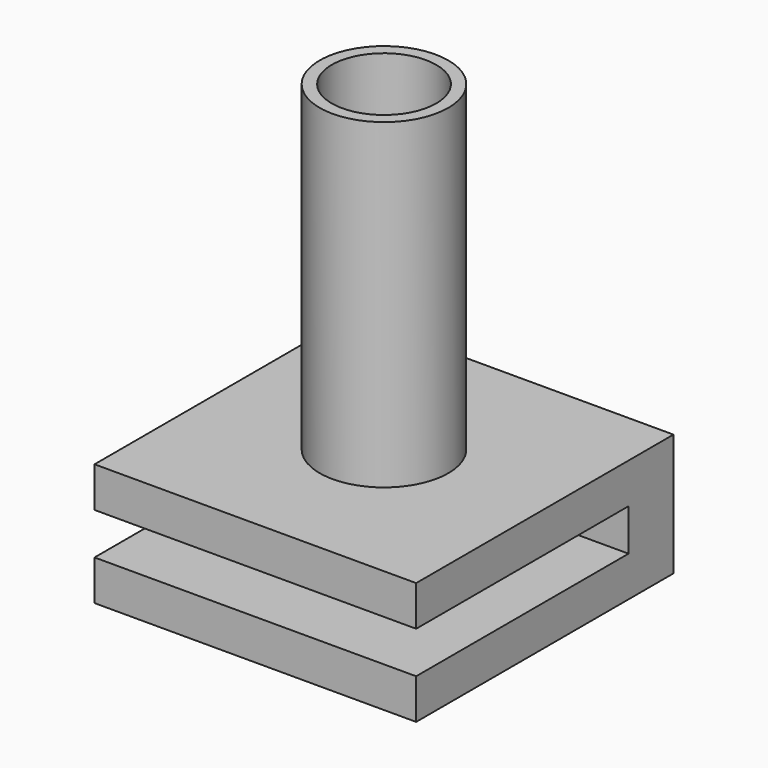
from build123d import *

# Parameters (mm, degrees)
F0_W     = 50.8
F0_H     = 50.8
F1_DEPTH = 6.35
F2_W     = 50.8
F2_H     = 8.870684
F3_DEPTH = 6.604
F4_W     = 50.8
F4_H     = 50.8
F5_DEPTH = 6.35
F6_R     = 10.16
F6_R_2   = 8.255
F7_DEPTH = 50.8


with BuildPart() as f1:
    # F0 (on Top) → F1 (new body)
    with BuildSketch(Plane.XY):
        Rectangle(F0_W, F0_H)
    extrude(amount=F1_DEPTH)

    # F2 (on face) → F3 (join)
    with BuildSketch(Plane.XY.offset(6.35)):
        with Locations((0, 20.964658)):
            Rectangle(F2_W, F2_H)
    extrude(amount=F3_DEPTH)

    # F4 (on face) → F5 (join)
    with BuildSketch(Plane.XY.offset(12.954)):
        Rectangle(F4_W, F4_H)
    extrude(amount=F5_DEPTH)

    # F6 (on face) → F7 (join)
    with BuildSketch(Plane.XY.offset(19.304)):
        Circle(F6_R)
        Circle(F6_R_2, mode=Mode.SUBTRACT)
    extrude(amount=F7_DEPTH)


solid = f1.part
